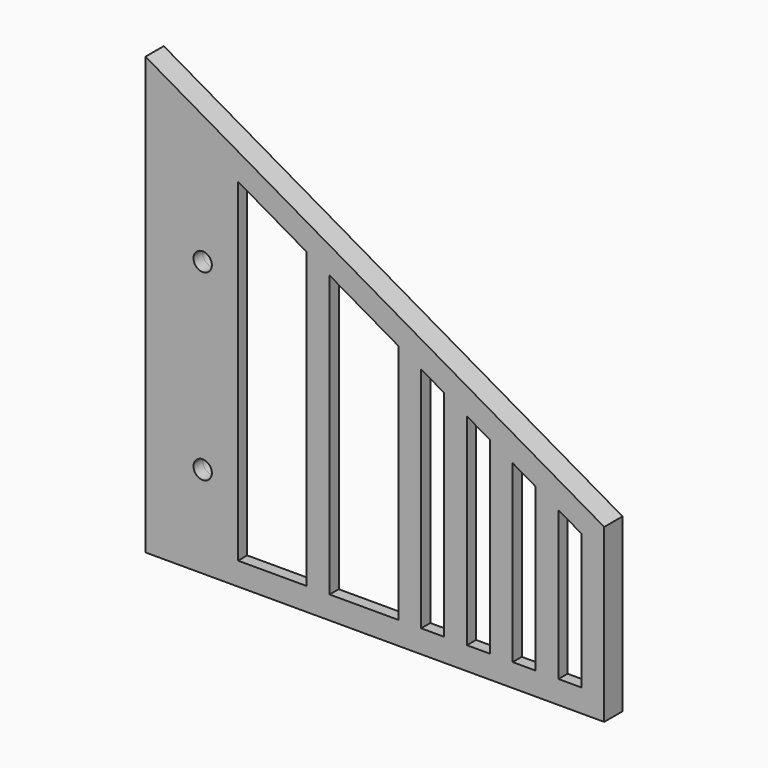
from build123d import *

# Parameters (mm, degrees)
F1_DEPTH = 5
F2_T     = -2.5
F4_DEPTH = 5.001
F5_R     = 2
F6_DEPTH = 5.001
F7_R     = 4
F7_R_2   = 2
F8_DEPTH = 2.5


with BuildPart() as f1:
    # F0 (on Front) → F1 (new body)
    with BuildSketch(Plane.XZ):
        Polygon((0, 95.369), (0, 0), (100.232048, 0), (100.232048, 37.5), align=None)
    extrude(amount=F1_DEPTH)

    # F2
    f2_openings = [f1.faces().sort_by_distance(p)[0] for p in [
        (42.840276, 0, 35.317578),
    ]]
    offset(amount=F2_T, openings=f2_openings)

    # F3 (on face) → F4 (cut, through all)
    with BuildSketch(Plane(origin=(0, 0, 0), x_dir=(-1, 0, 0), z_dir=(0, 1, 0))):
        Polygon((-90.232048, 37.5), (-95.232048, 34.613249), (-95.232048, 5), (-90.232048, 5), align=None)
        Polygon((-85.232048, 40.386751), (-85.232048, 5), (-80.232048, 5), (-80.232048, 43.273503), align=None)
        Polygon((-75.232048, 46.160254), (-75.232048, 5), (-70.232048, 5), (-70.232048, 49.047005), align=None)
        Polygon((-65.232048, 51.933757), (-65.232048, 5), (-60.232048, 5), (-60.232048, 54.820508), align=None)
        Polygon((-55.232048, 57.707259), (-55.232048, 5), (-50.232048, 5), (-50.232048, 60.594011), align=None)
        Polygon((-50.232048, 60.594011), (-50.232048, 5), (-45.232048, 5), (-45.232048, 63.480762), align=None)
        Polygon((-45.232048, 63.480762), (-45.232048, 5), (-40.232048, 5), (-40.232048, 66.367513), align=None)
        Polygon((-30.232048, 72.141016), (-35.232048, 69.254265), (-35.232048, 5), (-30.232048, 5), align=None)
        Polygon((-25.232048, 75.027767), (-30.232048, 72.141016), (-30.232048, 5), (-25.232048, 5), align=None)
        Polygon((-20.232048, 77.914519), (-25.232048, 75.027767), (-25.232048, 5), (-20.232048, 5), align=None)
    extrude(amount=-F4_DEPTH, mode=Mode.SUBTRACT)

    # F5 (on face) → F6 (cut, through all)
    with BuildSketch(Plane(origin=(0, 0, 0), x_dir=(-1, 0, 0), z_dir=(0, 1, 0))):
        with Locations((-12.5, 60)):
            Circle(F5_R)
        with Locations((-12.5, 20)):
            Circle(F5_R)
    extrude(amount=-F6_DEPTH, mode=Mode.SUBTRACT)

    # F7 (on face) → F8 (join, through all)
    with BuildSketch(Plane(origin=(0, -2.5, 0), x_dir=(-1, 0, 0), z_dir=(0, 1, 0))):
        with Locations((-12.5, 60)):
            Circle(F7_R)
        with Locations((-12.5, 60)):
            Circle(F7_R_2, mode=Mode.SUBTRACT)
        with Locations((-12.5, 20)):
            Circle(F7_R)
        with Locations((-12.5, 20)):
            Circle(F7_R_2, mode=Mode.SUBTRACT)
    extrude(amount=F8_DEPTH)


solid = f1.part
